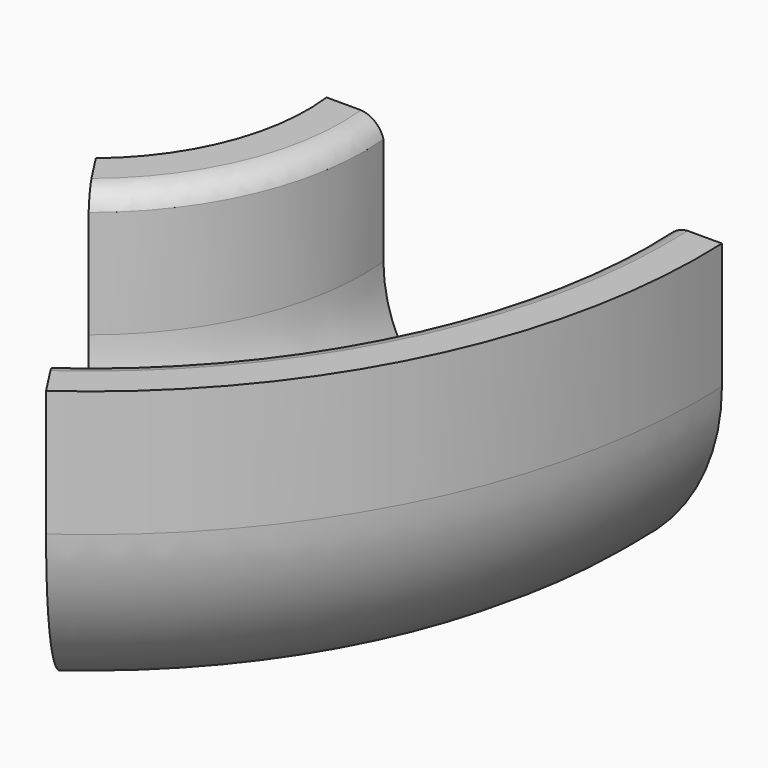
from build123d import *


with BuildPart() as f2:
    # F2: sweep along a path in F1
    with BuildLine(Plane.XY) as f2_path:
        ThreePointArc((-42.775339, -92.156554), (-9.690307, -51.507719), (0, 0))
    # F0 (on Front) → F2 (sweep)
    with BuildSketch(Plane.XZ):
        with BuildLine():
            ThreePointArc((-20.63977, -29.72378), (-32.065525, -16.772159), (-36.187058, 0))
            Line((-36.187058, 0), (-36.187058, 27.704396))
            ThreePointArc((-36.187058, 27.704396), (-38.341088, 30.969492), (-41.983402, 32.395763))
            Line((-41.983402, 32.395763), (-50.8, 32.395763))
            Line((-50.8, 32.395763), (-50.8, 0))
            ThreePointArc((-50.8, 0), (-44.088108, -25.236456), (-25.726035, -43.804237))
            Line((-25.726035, -43.804237), (0, -43.804237))
            Line((0, -43.804237), (25.726035, -43.804237))
            ThreePointArc((25.726035, -43.804237), (44.088108, -25.236456), (50.8, 0))
            Line((50.8, 0), (50.8, 32.395763))
            Line((50.8, 32.395763), (41.983402, 32.395763))
            ThreePointArc((41.983402, 32.395763), (38.341088, 30.969492), (36.187058, 27.704396))
            Line((36.187058, 27.704396), (36.187058, 0))
            ThreePointArc((36.187058, 0), (32.065525, -16.772159), (20.63977, -29.72378))
            ThreePointArc((20.63977, -29.72378), (16.846551, -31.580554), (12.671795, -32.218926))
            Line((12.671795, -32.218926), (0, -32.218926))
            Line((0, -32.218926), (-12.671795, -32.218926))
            ThreePointArc((-12.671795, -32.218926), (-16.846551, -31.580554), (-20.63977, -29.72378))
        make_face()
    sweep(path=f2_path.line)


solid = f2.part
